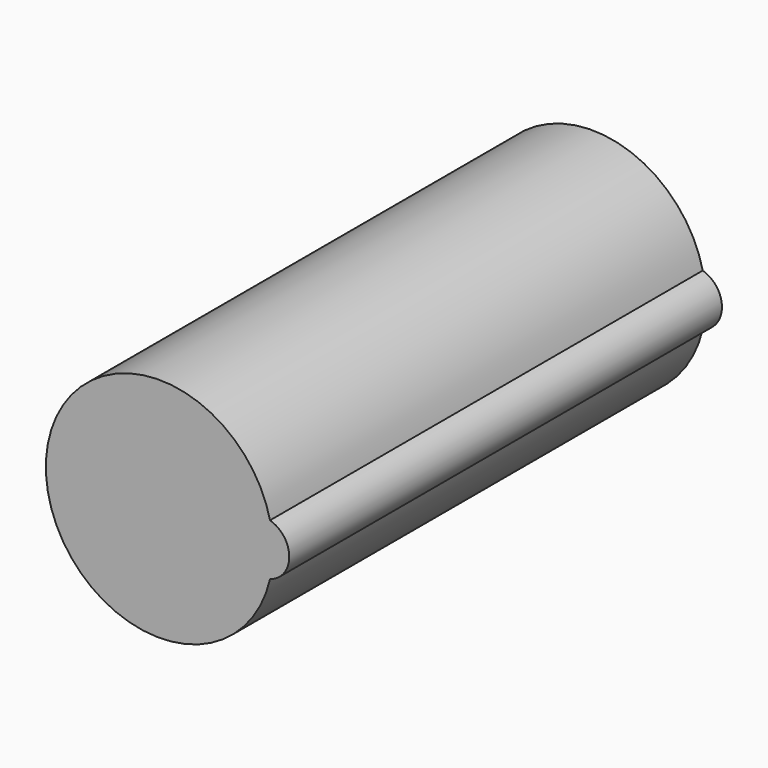
from build123d import *

# Parameters (mm, degrees)
CYLINDER013_R     = 0.5
CYLINDER013_DEPTH = 10
CYLINDER012_R     = 2.1
CYLINDER012_DEPTH = 10


with BuildPart() as cylinder013:
    # Cylinder013 → Cylinder013 (new body)
    with BuildSketch(Plane(origin=(10.9, -8, -10), x_dir=(1, 0, 0), z_dir=(0, -1, 0))):
        Circle(CYLINDER013_R)
    extrude(amount=CYLINDER013_DEPTH)


with BuildPart() as side_screw_hole:
    # Cylinder012 → Cylinder012 (new body)
    with BuildSketch(Plane(origin=(9, -8, -10), x_dir=(1, 0, 0), z_dir=(0, -1, 0))):
        Circle(CYLINDER012_R)
    extrude(amount=CYLINDER012_DEPTH)

    # Fusion004: union Cylinder013
    add(cylinder013.part)


solid = side_screw_hole.part
